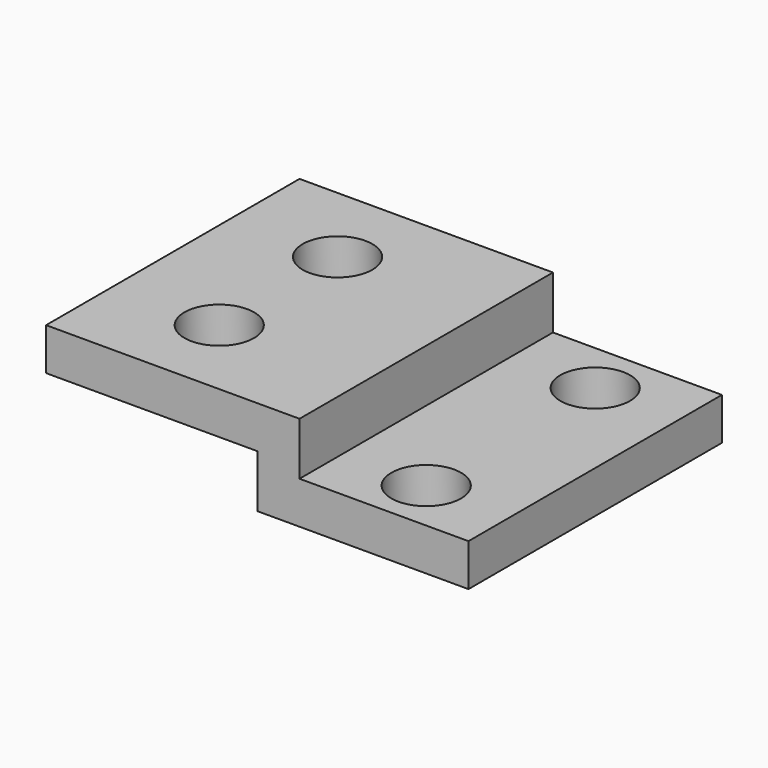
from build123d import *

# Parameters (mm, degrees)
F1_DEPTH = 7.5
F3_D     = 3.3
F5_D     = 3.3


with BuildPart() as f1:
    # F0 (on Front) → F1 (new body, symmetric)
    with BuildSketch(Plane.XZ):
        Polygon((0, -2), (0, 0), (-8, 0), (-8, 2.5), (-20, 2.5), (-20, 0.5), (-10, 0.5), (-10, -2), align=None)
    extrude(amount=F1_DEPTH, both=True)

    # F3 (through all)
    with Locations(Plane.XY.offset(2.5)):
        with Locations((-15, -3.5), (-15, 3.5)):
            Hole(F3_D / 2)

    # F5 (through all)
    with Locations(Plane.XY):
        with Locations((-4, -5), (-4, 5)):
            Hole(F5_D / 2)


solid = f1.part
